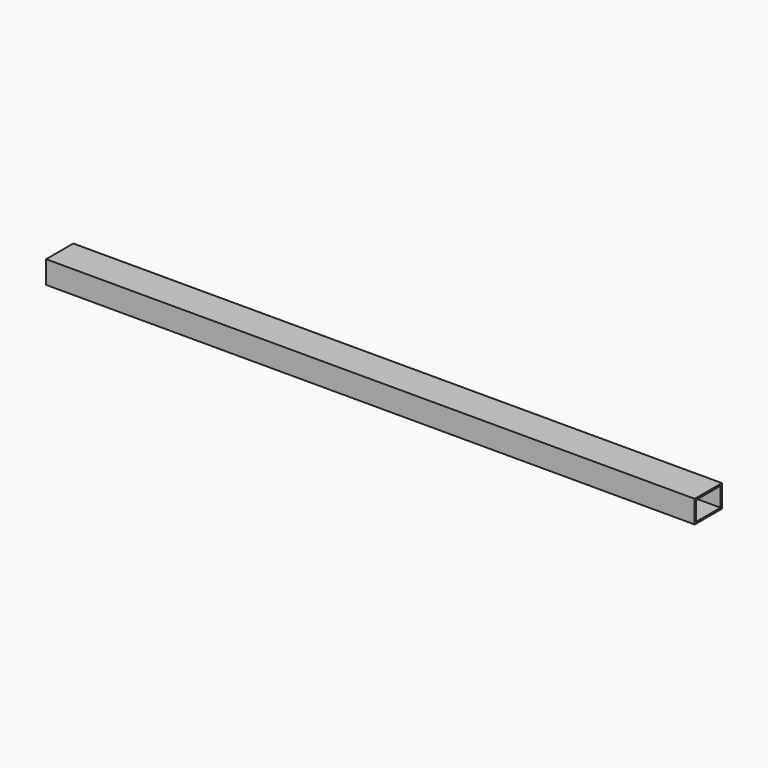
from build123d import *

# Parameters (mm, degrees)
F0_W     = 1145
F0_H     = 60
F1_DEPTH = 40
F2_T     = -3


with BuildPart() as f1:
    # F0 (on Top) → F1 (new body)
    with BuildSketch(Plane.XY):
        Rectangle(F0_W, F0_H)
    extrude(amount=F1_DEPTH)

    # F2
    f2_openings = [f1.faces().sort_by_distance(p)[0] for p in [
        (-572.5, 0, 20),
        (572.5, 0, 20),
    ]]
    offset(amount=F2_T, openings=f2_openings)


solid = f1.part
